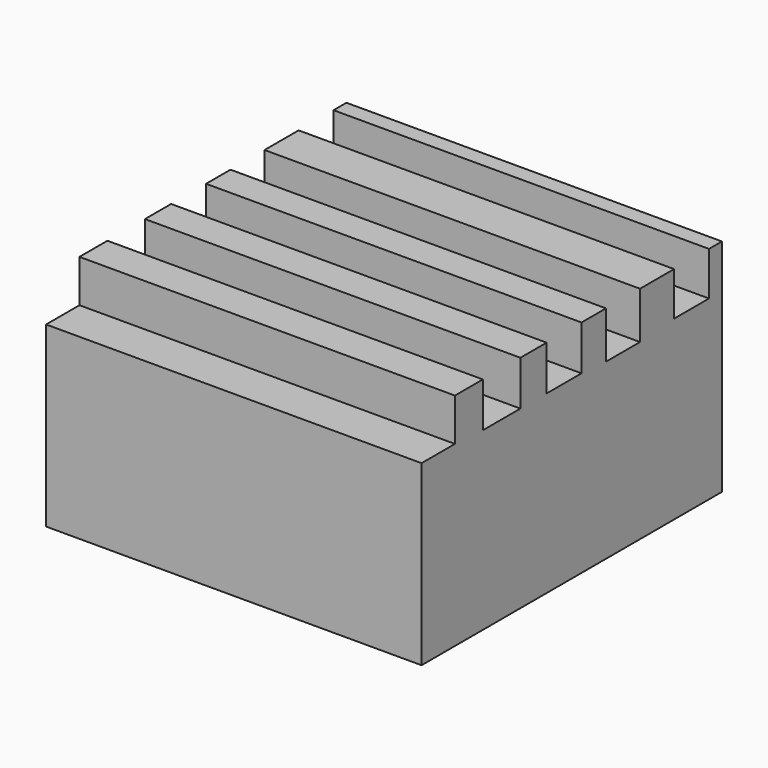
from build123d import *

# Parameters (mm, degrees)
F0_W     = 153.3627957106
F0_H     = 90.0560617447
F1_DEPTH = 76.6826
F2_W     = 17.0374948467
F2_H     = 17.3870613798
F2_W_2   = 19.1703476012
F2_H_2   = 18.2787058875
F2_W_3   = 17.8328882903
F2_W_4   = 17.3870567232
F2_H_3   = 19.1703503951
F2_W_5   = 17.8328789771
F2_H_4   = 17.832884565
F3_DEPTH = 228.6


with BuildPart() as f1:
    # F0 (on Front) → F1 (new body, symmetric)
    with BuildSketch(Plane.XZ):
        with Locations((0.4458203912, -12.4830156565)):
            Rectangle(F0_W, F0_H)
    extrude(amount=F1_DEPTH, both=True)

    # F2 (on face) → F3 (cut)
    with BuildSketch(Plane.YZ.offset(77.1272182465)):
        with Locations((-68.1638525767, 23.8514845259)):
            Rectangle(F2_W, F2_H)
        with Locations((-35.7936229557, 23.4056622721)):
            Rectangle(F2_W_2, F2_H_2)
        with Locations((-3.9173448458, 23.4056622721)):
            Rectangle(F2_W_3, F2_H_2)
        with Locations((26.1756433174, 22.9598400183)):
            Rectangle(F2_W_4, F2_H_3)
        with Locations((61.172677204, 23.6285729334)):
            Rectangle(F2_W_5, F2_H_4)
    extrude(amount=-F3_DEPTH, mode=Mode.SUBTRACT)


solid = f1.part
